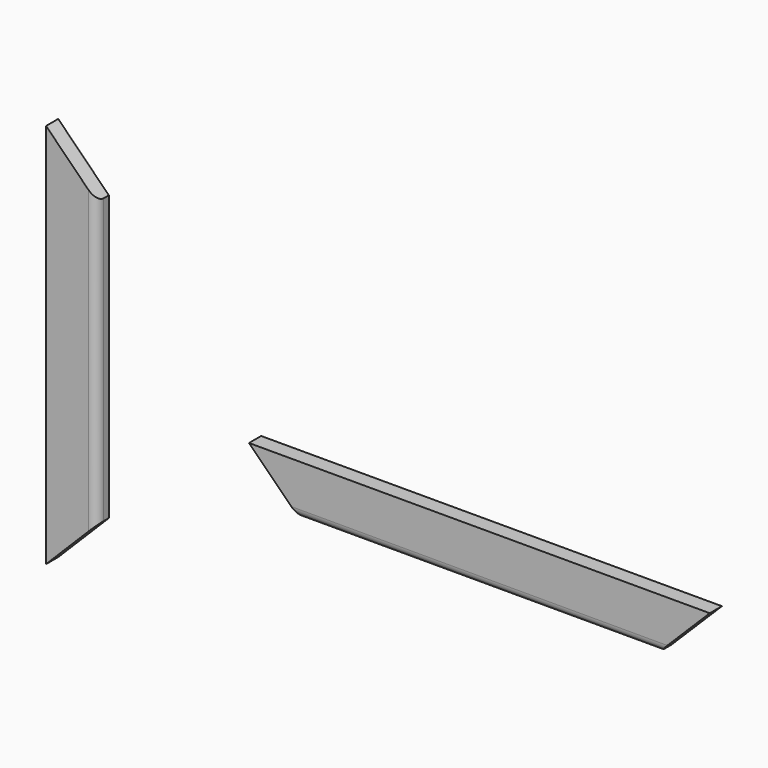
from build123d import *

# Parameters (mm, degrees)
F0_W      = 546.1
F0_H      = 60
F1_DEPTH  = 18
F3_DEPTH  = 18.001
F5_DEPTH  = 18.001
F6_W      = 60
F6_H      = 457.2
F7_DEPTH  = 18
F9_DEPTH  = 18.001
F11_DEPTH = 18.001
F12_R     = 10
F13_R     = 10


with BuildPart() as f1:
    # F0 (on Front) → F1 (new body)
    with BuildSketch(Plane.XZ):
        with Locations((20.951711, -46.555604)):
            Rectangle(F0_W, F0_H)
    extrude(amount=F1_DEPTH)

    # F2 (on face) → F3 (cut, through all)
    with BuildSketch(Plane.XZ.offset(18)):
        Polygon((-191.890316, -76.555604), (-252.098289, -16.555604), (-252.098289, -76.555604), align=None)
    extrude(amount=-F3_DEPTH, mode=Mode.SUBTRACT)

    # F4 (on face) → F5 (cut, through all)
    with BuildSketch(Plane.XZ.offset(18)):
        Polygon((294.001711, -76.555604), (294.001711, -16.555604), (233.793738, -76.555604), align=None)
    extrude(amount=-F5_DEPTH, mode=Mode.SUBTRACT)

    # F12
    f12_edges = [f1.edges().sort_by_distance(p)[0] for p in [
        (20.951711, -18, -76.555604),
    ]]
    fillet(f12_edges, radius=F12_R)


with BuildPart() as f7:
    # F6 (on Front) → F7 (new body)
    with BuildSketch(Plane.XZ):
        with Locations((-462.610438, 7.46084)):
            Rectangle(F6_W, F6_H)
    extrude(amount=F7_DEPTH)

    # F8 (on face) → F9 (cut, through all)
    with BuildSketch(Plane.XZ.offset(18)):
        Polygon((-432.610438, 236.06084), (-492.610438, 236.06084), (-432.610438, 175.852868), align=None)
    extrude(amount=-F9_DEPTH, mode=Mode.SUBTRACT)

    # F10 (on face) → F11 (cut, through all)
    with BuildSketch(Plane.XZ.offset(18)):
        Polygon((-432.610438, -160.931187), (-492.610438, -221.13916), (-432.610438, -221.13916), align=None)
    extrude(amount=-F11_DEPTH, mode=Mode.SUBTRACT)

    # F13
    f13_edges = [f7.edges().sort_by_distance(p)[0] for p in [
        (-432.610438, -18, 7.46084),
    ]]
    fillet(f13_edges, radius=F13_R)


solid = Compound([f1.part, f7.part])
